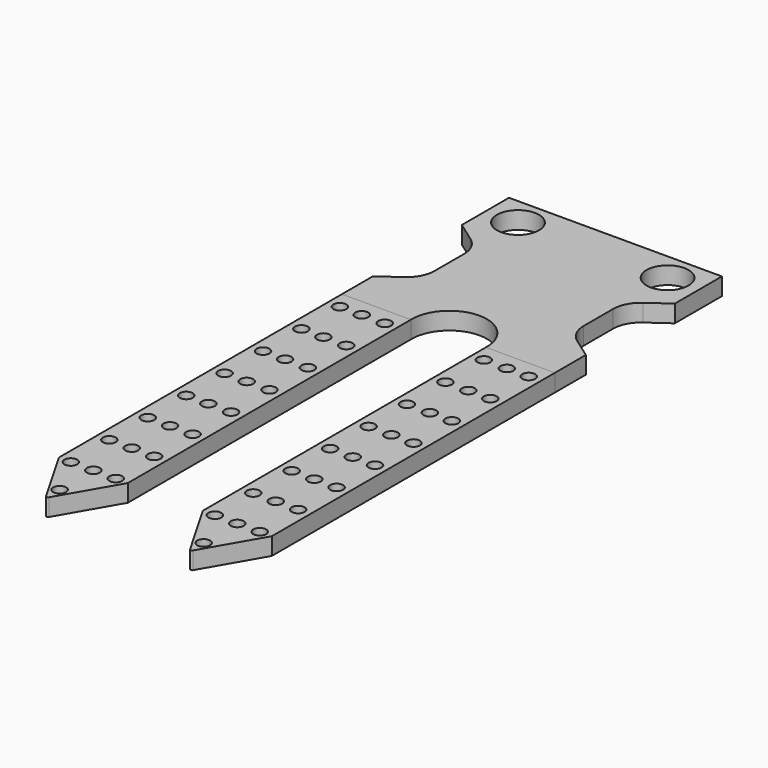
from build123d import *

# Parameters (mm, degrees)
F0_R     = 1.875
F1_DEPTH = 1.55
F0_R_2   = 0.575
F2_DEPTH = 1.55
F3_R     = 0.15
F4_R     = 2.5


with BuildPart() as f1:
    # F0 (on Top) → F1 (new body)
    with BuildSketch(Plane.XY):
        with BuildLine():
            Line((9.4925, 0), (-9.4925, 0))
            Line((-9.4925, 0), (-9.4925, -5.25))
            Line((-9.4925, -5.25), (-6.6425, -7.281625))
            Line((-6.6425, -7.281625), (-6.6425, -13.131625))
            Line((-6.6425, -13.131625), (-9.4925, -15.16325))
            Line((-9.4925, -15.16325), (-9.4925, -18.61325))
            Line((-9.4925, -18.61325), (-3.3425, -18.61325))
            ThreePointArc((-3.3425, -18.61325), (0, -15.16325), (3.3425, -18.61325))
            Line((3.3425, -18.61325), (9.4925, -18.61325))
            Line((9.4925, -18.61325), (9.4925, -15.16325))
            Line((9.4925, -15.16325), (6.6425, -13.131625))
            Line((6.6425, -13.131625), (6.6425, -7.281625))
            Line((6.6425, -7.281625), (9.4925, -5.25))
            Line((9.4925, -5.25), (9.4925, 0))
        make_face()
        with Locations((-6.6675, -2.525)):
            Circle(F0_R, mode=Mode.SUBTRACT)
        with Locations((6.6675, -2.525)):
            Circle(F0_R, mode=Mode.SUBTRACT)
    extrude(amount=F1_DEPTH)

    # F4
    f4_edges = [f1.edges().sort_by_distance(p)[0] for p in [
        (-6.6425, -7.281625, 0.775),
        (-6.6425, -13.131625, 0.775),
        (6.6425, -13.131625, 0.775),
        (6.6425, -7.281625, 0.775),
    ]]
    fillet(f4_edges, radius=F4_R)


with BuildPart() as f2:
    # F0 (on Top) → F2 (new body)
    with BuildSketch(Plane.XY):
        Polygon((-3.3425, -18.61325), (-9.4925, -18.61325), (-9.4925, -50.16325), (-6.4175, -55.489306), (-3.3425, -50.16325), align=None)
        with Locations((-8.4175, -50.16325)):
            Circle(F0_R_2, mode=Mode.SUBTRACT)
        with Locations((-6.4175, -53.914306)):
            Circle(F0_R_2, mode=Mode.SUBTRACT)
        with Locations((-6.4175, -50.16325)):
            Circle(F0_R_2, mode=Mode.SUBTRACT)
        with Locations((-8.4175, -45.881107)):
            Circle(F0_R_2, mode=Mode.SUBTRACT)
        with Locations((-6.4175, -45.881107)):
            Circle(F0_R_2, mode=Mode.SUBTRACT)
        with Locations((-4.4175, -50.16325)):
            Circle(F0_R_2, mode=Mode.SUBTRACT)
        with Locations((-4.4175, -45.881107)):
            Circle(F0_R_2, mode=Mode.SUBTRACT)
        with Locations((-8.4175, -41.598964)):
            Circle(F0_R_2, mode=Mode.SUBTRACT)
        with Locations((-8.4175, -37.316821)):
            Circle(F0_R_2, mode=Mode.SUBTRACT)
        with Locations((-6.431786, -41.598964)):
            Circle(F0_R_2, mode=Mode.SUBTRACT)
        with Locations((-6.438929, -37.316821)):
            Circle(F0_R_2, mode=Mode.SUBTRACT)
        with Locations((-8.4175, -33.034679)):
            Circle(F0_R_2, mode=Mode.SUBTRACT)
        with Locations((-8.4175, -28.752536)):
            Circle(F0_R_2, mode=Mode.SUBTRACT)
        with Locations((-6.446071, -33.034679)):
            Circle(F0_R_2, mode=Mode.SUBTRACT)
        with Locations((-6.453214, -28.752536)):
            Circle(F0_R_2, mode=Mode.SUBTRACT)
        with Locations((-4.4175, -41.598964)):
            Circle(F0_R_2, mode=Mode.SUBTRACT)
        with Locations((-4.4175, -37.316821)):
            Circle(F0_R_2, mode=Mode.SUBTRACT)
        with Locations((-4.4175, -33.034679)):
            Circle(F0_R_2, mode=Mode.SUBTRACT)
        with Locations((-4.4175, -28.752536)):
            Circle(F0_R_2, mode=Mode.SUBTRACT)
        with Locations((-8.4175, -24.470393)):
            Circle(F0_R_2, mode=Mode.SUBTRACT)
        with Locations((-6.460357, -24.470393)):
            Circle(F0_R_2, mode=Mode.SUBTRACT)
        with Locations((-8.4175, -20.18825)):
            Circle(F0_R_2, mode=Mode.SUBTRACT)
        with Locations((-6.4675, -20.18825)):
            Circle(F0_R_2, mode=Mode.SUBTRACT)
        with Locations((-4.4175, -24.470393)):
            Circle(F0_R_2, mode=Mode.SUBTRACT)
        with Locations((-4.4175, -20.18825)):
            Circle(F0_R_2, mode=Mode.SUBTRACT)
        Polygon((9.4925, -50.16325), (9.4925, -18.61325), (3.3425, -18.61325), (3.3425, -50.16325), (6.4175, -55.489306), align=None)
        with Locations((4.4175, -50.16325)):
            Circle(F0_R_2, mode=Mode.SUBTRACT)
        with Locations((4.4175, -45.881107)):
            Circle(F0_R_2, mode=Mode.SUBTRACT)
        with Locations((6.4175, -53.914306)):
            Circle(F0_R_2, mode=Mode.SUBTRACT)
        with Locations((6.4175, -50.16325)):
            Circle(F0_R_2, mode=Mode.SUBTRACT)
        with Locations((8.4175, -50.16325)):
            Circle(F0_R_2, mode=Mode.SUBTRACT)
        with Locations((6.4175, -45.881107)):
            Circle(F0_R_2, mode=Mode.SUBTRACT)
        with Locations((8.4175, -45.881107)):
            Circle(F0_R_2, mode=Mode.SUBTRACT)
        with Locations((4.4175, -41.598964)):
            Circle(F0_R_2, mode=Mode.SUBTRACT)
        with Locations((4.4175, -37.316821)):
            Circle(F0_R_2, mode=Mode.SUBTRACT)
        with Locations((4.4175, -33.034679)):
            Circle(F0_R_2, mode=Mode.SUBTRACT)
        with Locations((4.4175, -28.752536)):
            Circle(F0_R_2, mode=Mode.SUBTRACT)
        with Locations((6.431786, -41.598964)):
            Circle(F0_R_2, mode=Mode.SUBTRACT)
        with Locations((6.438929, -37.316821)):
            Circle(F0_R_2, mode=Mode.SUBTRACT)
        with Locations((8.4175, -41.598964)):
            Circle(F0_R_2, mode=Mode.SUBTRACT)
        with Locations((8.4175, -37.316821)):
            Circle(F0_R_2, mode=Mode.SUBTRACT)
        with Locations((6.446071, -33.034679)):
            Circle(F0_R_2, mode=Mode.SUBTRACT)
        with Locations((6.453214, -28.752536)):
            Circle(F0_R_2, mode=Mode.SUBTRACT)
        with Locations((8.4175, -33.034679)):
            Circle(F0_R_2, mode=Mode.SUBTRACT)
        with Locations((8.4175, -28.752536)):
            Circle(F0_R_2, mode=Mode.SUBTRACT)
        with Locations((4.4175, -24.470393)):
            Circle(F0_R_2, mode=Mode.SUBTRACT)
        with Locations((4.4175, -20.18825)):
            Circle(F0_R_2, mode=Mode.SUBTRACT)
        with Locations((6.460357, -24.470393)):
            Circle(F0_R_2, mode=Mode.SUBTRACT)
        with Locations((8.4175, -24.470393)):
            Circle(F0_R_2, mode=Mode.SUBTRACT)
        with Locations((6.4675, -20.18825)):
            Circle(F0_R_2, mode=Mode.SUBTRACT)
        with Locations((8.4175, -20.18825)):
            Circle(F0_R_2, mode=Mode.SUBTRACT)
    extrude(amount=F2_DEPTH)

    # F3
    f3_edges = [f2.edges().sort_by_distance(p)[0] for p in [
        (6.4175, -55.489306, 0.775),
        (-6.4175, -55.489306, 0.775),
    ]]
    fillet(f3_edges, radius=F3_R)


solid = Compound([f1.part, f2.part])
